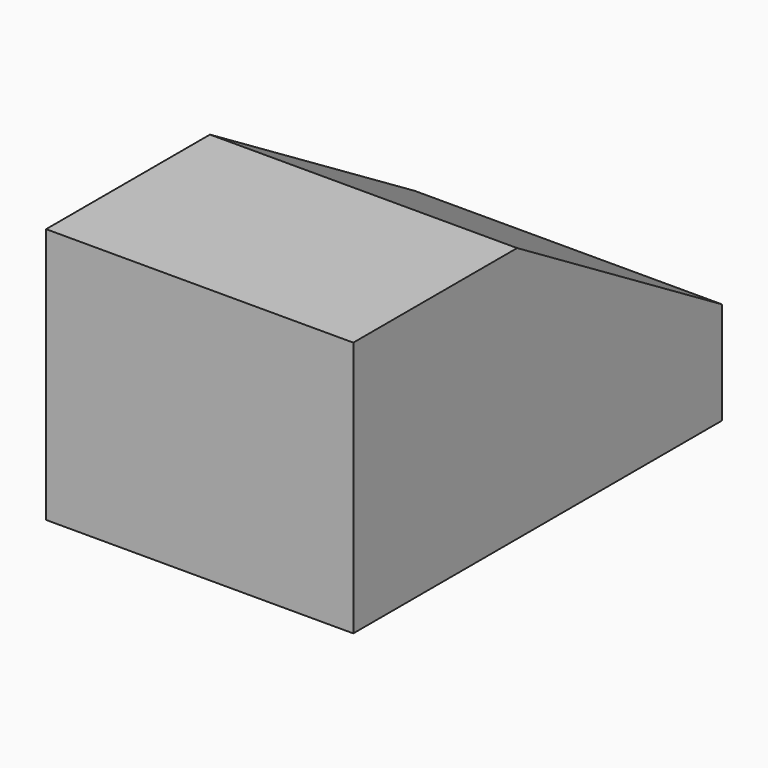
from build123d import *

# Parameters (mm, degrees)
F1_DEPTH = 25.4
F2_DEPTH = 12.7


with BuildPart() as f1:
    # F0 (on Right) → F1 (new body)
    with BuildSketch(Plane.YZ):
        Polygon((25.4, 0), (0, 0), (0, -31.75), (57.15, -31.75), (57.15, -19.05), align=None)
    extrude(amount=F1_DEPTH)

    # F1_face (on face) → F2 (join)
    with BuildSketch(Plane(origin=(25.4, 24.976667, -17.78), x_dir=(0, 1, 0), z_dir=(1, 0, 0))):
        Polygon((0.423333, 17.78), (-24.976667, 17.78), (-24.976667, -13.97), (32.173333, -13.97), (32.173333, -1.27), align=None)
    extrude(amount=F2_DEPTH)


solid = f1.part
